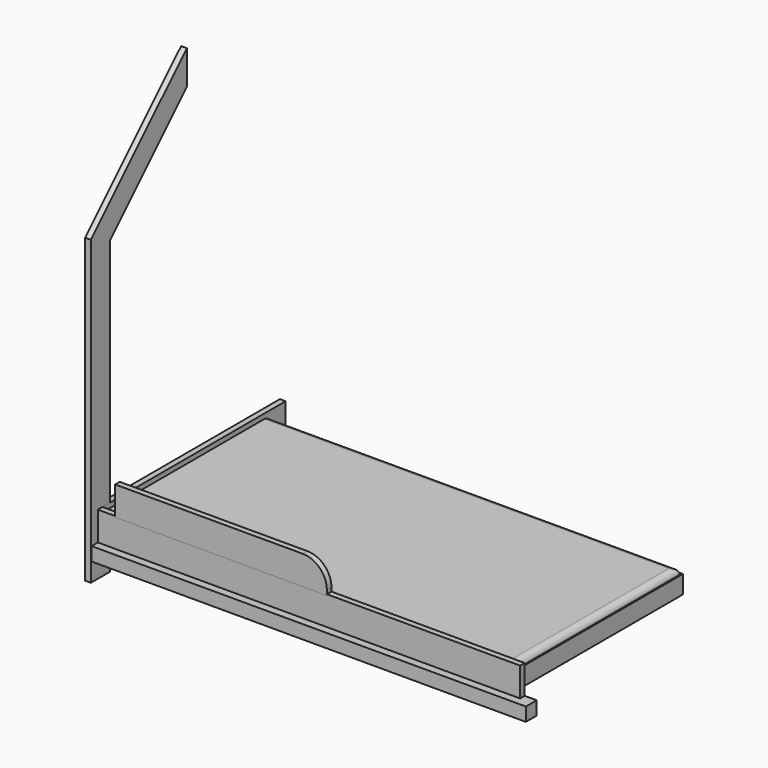
from build123d import *

# Parameters (mm, degrees)
F0_W      = 1385
F0_H      = 700
F0_W_2    = 52.058242
F0_H_2    = 614.094056
F0_W_3    = 52.058243
F0_H_3    = 614.094057
F1_DEPTH  = 60
F3_W      = 32
F3_H      = 106.117774
F4_DEPTH  = 19
F5_W      = 760
F5_H      = 96
F6_DEPTH  = 19
F7_W      = 1420
F7_H      = 96
F8_DEPTH  = 19
F9_W      = 45
F9_H      = 45
F10_DEPTH = 1460
F12_DEPTH = 19
F13_W     = 1381.449699
F13_H     = 691.539764
F14_DEPTH = 80
F15_R     = 20


with BuildPart() as f1:
    # F0 (on Top) → F1 (new body)
    with BuildSketch(Plane.XY):
        with Locations((692.5948, 349.905201)):
            Rectangle(F0_W, F0_H)
        with Locations((669.756066, 349.815305)):
            Rectangle(F0_W_2, F0_H_2, mode=Mode.SUBTRACT)
        with Locations((775.658131, 349.815309)):
            Rectangle(F0_W_2, F0_H_2, mode=Mode.SUBTRACT)
        with Locations((886.372935, 349.815328)):
            Rectangle(F0_W_2, F0_H_2, mode=Mode.SUBTRACT)
        with Locations((992.274999, 349.815331)):
            Rectangle(F0_W_3, F0_H_2, mode=Mode.SUBTRACT)
        with Locations((1086.121028, 349.81532)):
            Rectangle(F0_W_2, F0_H_2, mode=Mode.SUBTRACT)
        with Locations((1192.023093, 349.815324)):
            Rectangle(F0_W_2, F0_H_2, mode=Mode.SUBTRACT)
        with Locations((1302.737897, 349.815342)):
            Rectangle(F0_W_2, F0_H_3, mode=Mode.SUBTRACT)
        with Locations((114.702497, 352.942329)):
            Rectangle(F0_W_2, F0_H_2, mode=Mode.SUBTRACT)
        with Locations((229.227826, 353.047132)):
            Rectangle(F0_W_2, F0_H_3, mode=Mode.SUBTRACT)
        with Locations((336.286019, 352.942329)):
            Rectangle(F0_W_3, F0_H_2, mode=Mode.SUBTRACT)
        with Locations((448.451858, 353.047132)):
            Rectangle(F0_W_2, F0_H_3, mode=Mode.SUBTRACT)
        with Locations((553.914975, 352.942329)):
            Rectangle(F0_W_3, F0_H_2, mode=Mode.SUBTRACT)
    extrude(amount=F1_DEPTH)


with BuildPart() as f4:
    # F3 (on Right) → F4 (new body)
    with BuildSketch(Plane.YZ):
        Polygon((0, -106.117774), (0, 0), (32, 0), (32, 862.745141), (350, 1180.745141), (350, 1293.882226), (-48, 895.882226), (-48, -106.117774), (-29, -106.117774), (-10, -106.117774), align=None)
        with Locations((16, -53.058887)):
            Rectangle(F3_W, F3_H)
    extrude(amount=F4_DEPTH)


with BuildPart() as f6:
    # F5 (on Right) → F6 (new body)
    with BuildSketch(Plane.YZ):
        with Locations((380, 48)):
            Rectangle(F5_W, F5_H)
    extrude(amount=F6_DEPTH)


with BuildPart() as f8:
    # F7 (on Front) → F8 (new body)
    with BuildSketch(Plane.XZ):
        with Locations((710, 48)):
            Rectangle(F7_W, F7_H)
    extrude(amount=F8_DEPTH)


with BuildPart() as f10:
    # F9 (on Right) → F10 (new body)
    with BuildSketch(Plane.YZ):
        with Locations((-22.5, -22.5)):
            Rectangle(F9_W, F9_H)
    extrude(amount=F10_DEPTH)


with BuildPart() as f12:
    # F11 (on Front) → F12 (new body)
    with BuildSketch(Plane.XZ):
        with BuildLine():
            Line((698.921861, 188.166573), (76.518134, 188.166573))
            Line((76.518134, 188.166573), (76.518134, 92.166573))
            Line((76.518134, 92.166573), (778.921861, 92.166573))
            Line((778.921861, 92.166573), (778.921861, 108.166573))
            ThreePointArc((778.921861, 108.166573), (755.490404, 164.735116), (698.921861, 188.166573))
        make_face()
    extrude(amount=F12_DEPTH)


with BuildPart() as f14:
    # F13 (on Top) → F14 (new body)
    with BuildSketch(Plane.XY):
        with Locations((690.72485, 345.769882)):
            Rectangle(F13_W, F13_H)
    extrude(amount=F14_DEPTH)

    # F15
    f15_edges = [f14.edges().sort_by_distance(p)[0] for p in [
        (0, 345.769882, 80),
        (690.72485, 0, 80),
        (1381.449699, 345.769882, 80),
        (690.72485, 691.539764, 80),
    ]]
    fillet(f15_edges, radius=F15_R)


solid = Compound([f1.part, f4.part, f6.part, f8.part, f10.part, f12.part, f14.part])
